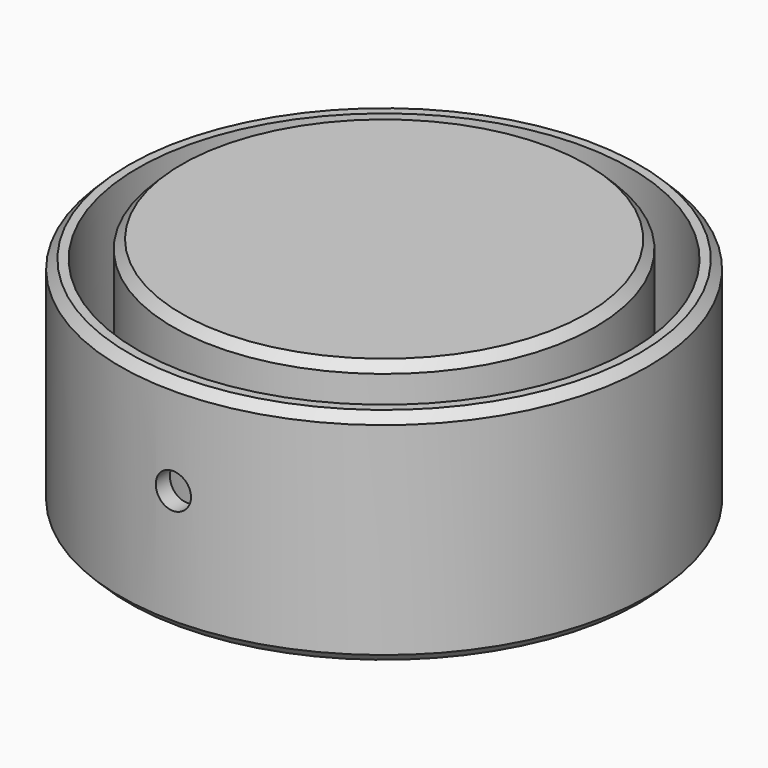
from build123d import *

# Parameters (mm, degrees)
F0_R       = 30
F1_DEPTH   = 25
F2_R       = 28
F3_DEPTH   = 22
F5_R       = 24
F5_R_2     = 22
F6_DEPTH   = 21
F7_R       = 24
F8_DEPTH   = 2
F9_R       = 7
F9_R_2     = 5
F10_DEPTH  = 22
F11_SIZE   = 1
F11_2_SIZE = 1
F12_R      = 1.375
F13_DEPTH  = 30.001
F14_R      = 2
F15_DEPTH  = 30.0010001118


with BuildPart() as f1:
    # F0 (on Top) → F1 (new body)
    with BuildSketch(Plane.XY):
        Circle(F0_R)
    extrude(amount=F1_DEPTH)

    # F2 (on face) → F3 (cut)
    with BuildSketch(Plane.XY.offset(25)):
        Circle(F2_R)
    extrude(amount=-F3_DEPTH, mode=Mode.SUBTRACT)

    # F11
    f11_edges = [f1.edges().sort_by_distance(p)[0] for p in [
        (-30, 0, 0),
        (-30, 0, 25),
    ]]
    chamfer(f11_edges, length=F11_SIZE)


with BuildPart() as f6:
    # F5 (on offset) → F6 (new body)
    with BuildSketch(Plane.XY.offset(4)):
        Circle(F5_R)
        Circle(F5_R_2, mode=Mode.SUBTRACT)
    extrude(amount=F6_DEPTH)

    # F7 (on face) → F8 (join)
    with BuildSketch(Plane.XY.offset(25)):
        Circle(F7_R)
    extrude(amount=F8_DEPTH)

    # F9 (on face) → F10 (join)
    with BuildSketch(Plane(origin=(0, 0, 25), x_dir=(1, 0, 0), z_dir=(0, 0, -1))):
        Circle(F9_R)
        Circle(F9_R_2, mode=Mode.SUBTRACT)
    extrude(amount=F10_DEPTH)

    # F11#2
    f11_2_edges = [f6.edges().sort_by_distance(p)[0] for p in [
        (-24, 0, 27),
    ]]
    chamfer(f11_2_edges, length=F11_2_SIZE)


with BuildPart() as f13_tool:
    # F12 (on Front) → F13 (new body, through all)
    with BuildSketch(Plane.XZ):
        with Locations((0, 14)):
            Circle(F12_R)
    extrude(amount=F13_DEPTH)


with BuildPart() as f1_1:
    add(f1.part)

    # F13: cut by f13_tool
    add(f13_tool.part, mode=Mode.SUBTRACT)

    # F14 (on Front) → F15 (cut, through all)
    with BuildSketch(Plane.XZ):
        with Locations((0, 14)):
            Circle(F14_R)
    extrude(amount=F15_DEPTH, mode=Mode.SUBTRACT)


with BuildPart() as f6_1:
    add(f6.part)

    # F13: cut by f13_tool
    add(f13_tool.part, mode=Mode.SUBTRACT)


solid = Compound([f1_1.part, f6_1.part])
